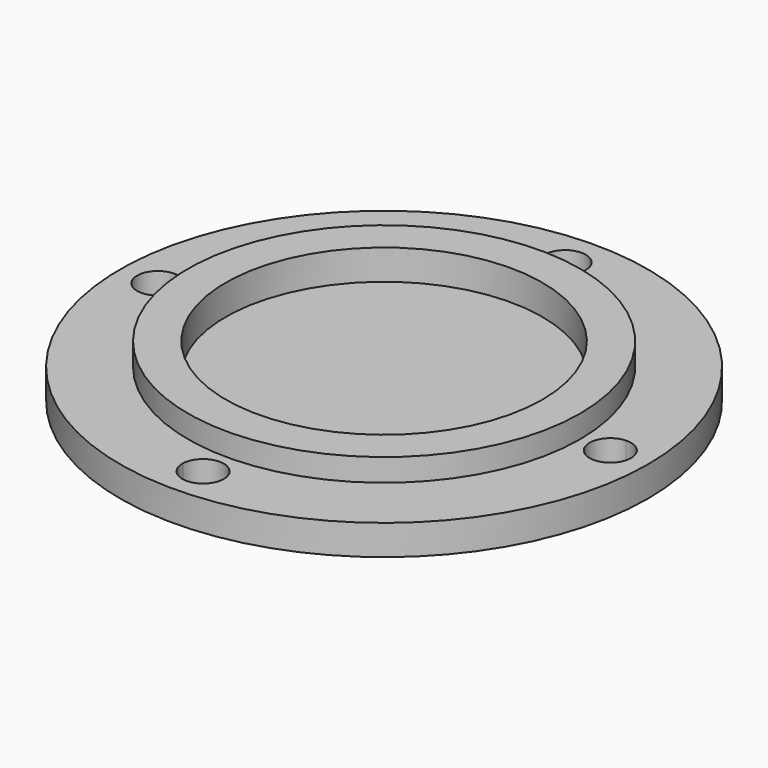
from build123d import *

# Parameters (mm, degrees)
F3_DEPTH = 4


with BuildPart() as f1:
    # F0 (on Front) → F1 (revolve)
    with BuildSketch(Plane.XZ):
        Polygon((0, 3), (0, 0), (35, 0), (35, 4), (26, 4), (26, 7), (21, 7), (21, 3), align=None)
    revolve(axis=Axis((0, 0, 21.586414), (0, 0, 1)))

    # F2 (on face) → F3 (cut)
    with BuildSketch(Plane.XY.offset(4)):
        with BuildLine():
            ThreePointArc((2.75, 30), (-0.063037, 32.749277), (-2.74711, 29.873958))
            ThreePointArc((-2.74711, 29.873958), (0, 27.25), (2.74711, 29.873958))
            ThreePointArc((2.74711, 29.873958), (2.749277, 29.936963), (2.75, 30))
        make_face()
        with BuildLine():
            ThreePointArc((-27.25, 0), (-28.011393, 1.899459), (-29.873958, 2.74711))
            ThreePointArc((-29.873958, 2.74711), (-32.75, 0), (-29.873958, -2.74711))
            ThreePointArc((-29.873958, -2.74711), (-28.011393, -1.899459), (-27.25, 0))
        make_face()
        with BuildLine():
            ThreePointArc((2.74711, -29.873958), (0, -27.25), (-2.74711, -29.873958))
            ThreePointArc((-2.74711, -29.873958), (-0.063037, -32.749277), (2.75, -30))
            ThreePointArc((2.75, -30), (2.749277, -29.936963), (2.74711, -29.873958))
        make_face()
        with BuildLine():
            ThreePointArc((32.75, 0), (31.899459, 1.988607), (29.873958, 2.74711))
            ThreePointArc((29.873958, 2.74711), (27.25, 0), (29.873958, -2.74711))
            ThreePointArc((29.873958, -2.74711), (31.899459, -1.988607), (32.75, 0))
        make_face()
    extrude(amount=-F3_DEPTH, mode=Mode.SUBTRACT)


solid = f1.part
